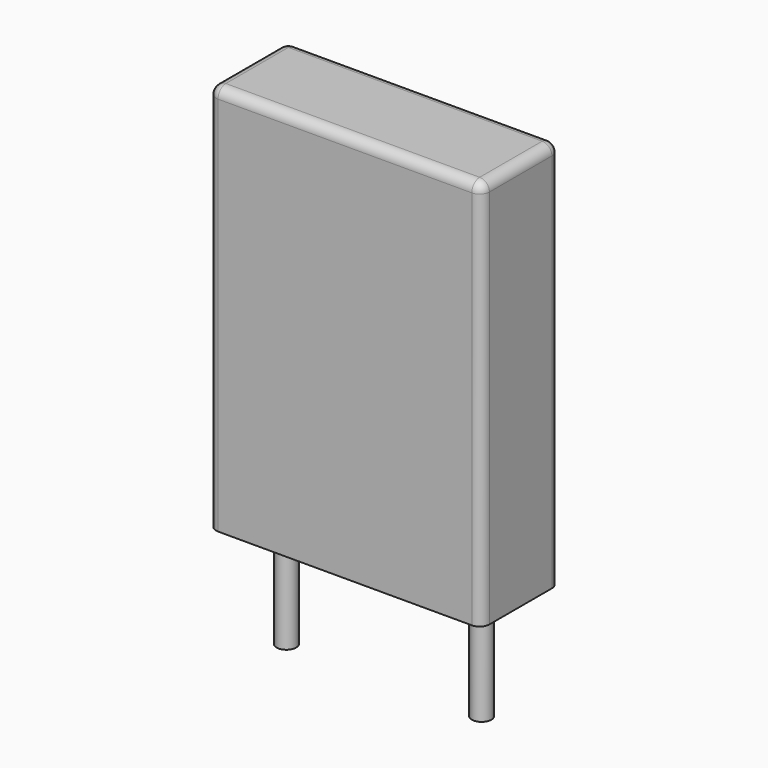
from build123d import *

# Parameters (mm, degrees)
SKETCH_W     = 7
SKETCH_H     = 2.5
PAD_DEPTH    = 10
FILLET_R     = 0.25
SKETCH001_R  = 0.25
PAD001_DEPTH = 3.2


with BuildPart() as fillet_body:
    # Sketch → Pad (new body)
    with BuildSketch(Plane.XY.offset(0.1)):
        with Locations((2.5, 0)):
            Rectangle(SKETCH_W, SKETCH_H)
    extrude(amount=PAD_DEPTH)

    # Fillet
    fillet_edges = [fillet_body.edges().sort_by_distance(p)[0] for p in [
        (-1, 0, 10.1),
        (-1, -1.25, 5.1),
        (2.5, -1.25, 10.1),
        (6, -1.25, 5.1),
        (6, 0, 10.1),
        (6, 1.25, 5.1),
        (2.5, 1.25, 10.1),
        (-1, 1.25, 5.1),
    ]]
    fillet(fillet_edges, radius=FILLET_R)


with BuildPart() as pad001:
    # Sketch001 → Pad001 (new body)
    with BuildSketch(Plane.XY.offset(0.5)):
        Circle(SKETCH001_R)
        with Locations((5, 0)):
            Circle(SKETCH001_R)
    extrude(amount=-PAD001_DEPTH)


solid = Compound([fillet_body.part, pad001.part])
